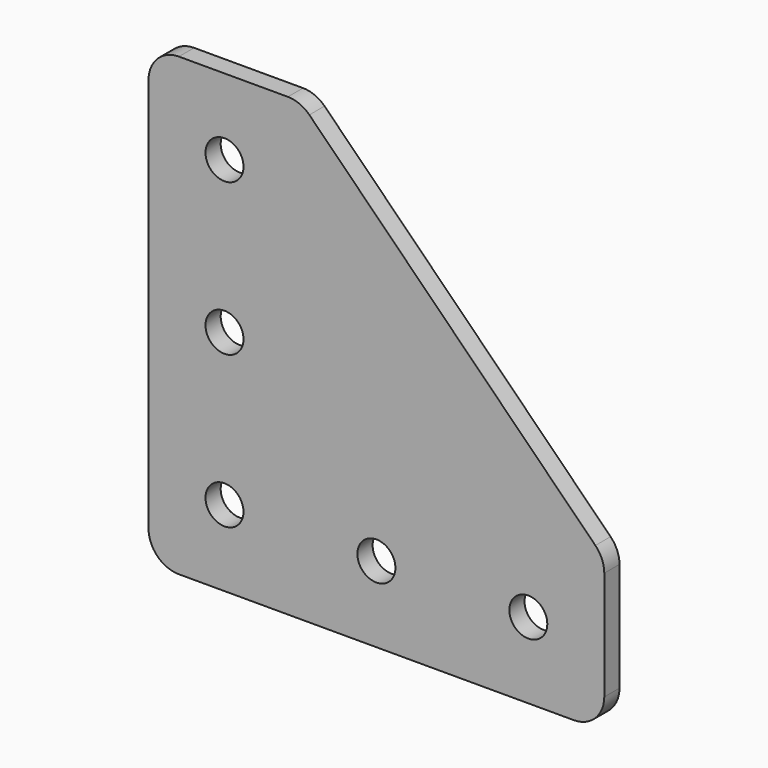
from build123d import *

# Parameters (mm, degrees)
F0_W     = 76.2
F0_H     = 76.2
F1_DEPTH = 3.175
F2_SIZE  = 50.8
F3_R     = 5.08
F5_D     = 6.35


with BuildPart() as f1:
    # F0 (on Front) → F1 (new body)
    with BuildSketch(Plane.XZ):
        with Locations((38.1, 38.1)):
            Rectangle(F0_W, F0_H)
    extrude(amount=F1_DEPTH)

    # F2
    f2_edges = [f1.edges().sort_by_distance(p)[0] for p in [
        (76.2, -1.5875, 76.2),
    ]]
    chamfer(f2_edges, length=F2_SIZE)

    # F3
    f3_edges = [f1.edges().sort_by_distance(p)[0] for p in [
        (0, -1.5875, 76.2),
        (25.4, -1.5875, 76.2),
        (76.2, -1.5875, 25.4),
        (76.2, -1.5875, 0),
        (0, -1.5875, 0),
    ]]
    fillet(f3_edges, radius=F3_R)

    # F5 (through all)
    with Locations(Plane(origin=(0, 0, 0), x_dir=(-1, 0, 0), z_dir=(0, 1, 0))):
        with Locations((-12.7, 12.7), (-12.7, 38.1), (-12.7, 63.5), (-38.1, 12.7), (-63.5, 12.7)):
            Hole(F5_D / 2)


solid = f1.part
